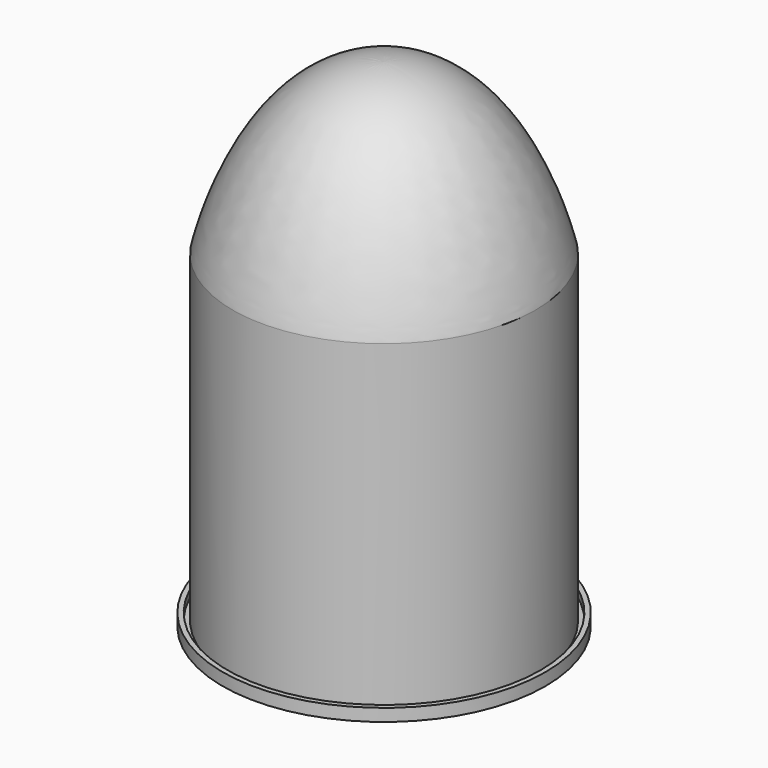
from build123d import *


with BuildPart() as part:
    # Sketch001 → Revolution (revolve)
    with BuildSketch(Plane.XZ):
        with BuildLine():
            Line((65, 0), (65, 5))
            Line((65, 5), (63, 5))
            Line((63, 5), (63, 2))
            Line((63, 2), (61, 2))
            Line((61, 2), (61, 132))
            add(Edge.make_bspline(
                [(0, 200), (46.719524, 200.024536), (61, 132), (61, 132)],
                knots=[0, 0, 0, 0, 1, 1, 1, 1], degree=3))
            Line((0, 200), (0, 198))
            add(Edge.make_bspline(
                [(0, 198), (43.327412, 190.171173), (59, 130), (59, 130)],
                knots=[0, 0, 0, 0, 1, 1, 1, 1], degree=3))
            Line((59, 130), (59, 0))
            Line((59, 0), (65, 0))
        make_face()
    revolve(axis=Axis((0, 0, 0), (0, 0, 1)))


solid = part.part
